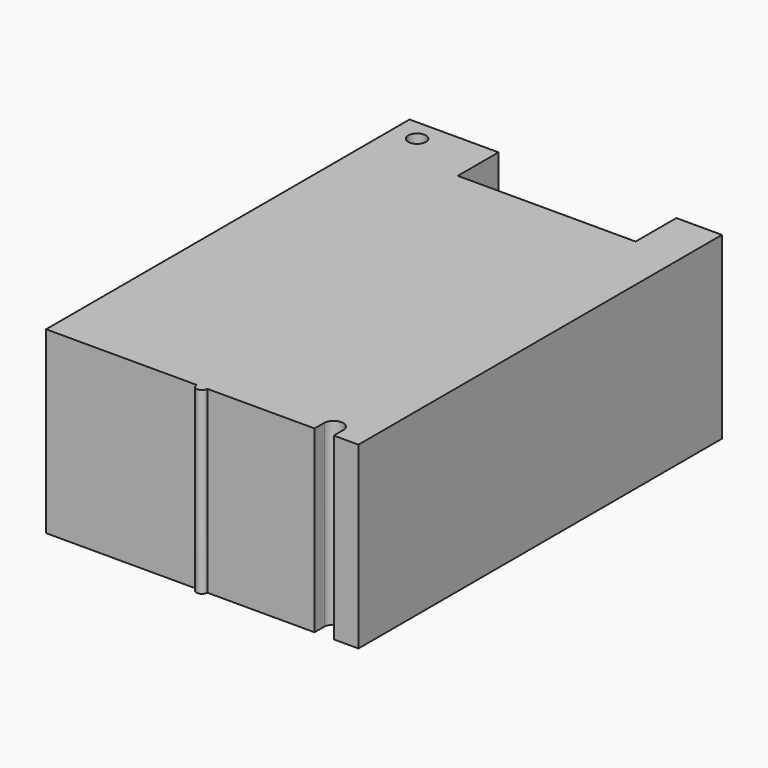
from build123d import *

# Parameters (mm, degrees)
F0_R     = 1.65
F1_DEPTH = 33.5


with BuildPart() as f1:
    # F0 (on Top) → F1 (new body)
    with BuildSketch(Plane.XY):
        with BuildLine():
            Line((-12.5, 41.15), (-29.1, 41.15))
            Line((-29.1, 41.15), (-29.1, -43.65))
            Line((-29.1, -43.65), (-1, -43.65))
            ThreePointArc((-1, -43.65), (0, -42.65), (1, -43.65))
            Line((1, -43.65), (21.0029261778, -43.65))
            Line((21.0029261778, -43.65), (21.0029261778, -41.3474052754))
            ThreePointArc((21.0029261778, -41.3474052754), (22.8, -39.65), (24.5970738222, -41.3474052754))
            Line((24.5970738222, -41.3474052754), (24.5970738222, -43.65))
            Line((24.5970738222, -43.65), (29.2, -43.65))
            Line((29.2, -43.65), (29.2, 41.15))
            Line((29.2, 41.15), (20.7, 41.15))
            Line((20.7, 41.15), (20.7, 31.65))
            Line((20.7, 31.65), (-12.5, 31.65))
            Line((-12.5, 31.65), (-12.5, 41.15))
        make_face()
        with Locations((-24.45, 37.1)):
            Circle(F0_R, mode=Mode.SUBTRACT)
        with BuildLine():
            ThreePointArc((1, -43.65), (0, -42.65), (-1, -43.65))
            Line((-1, -43.65), (1, -43.65))
        make_face()
        with BuildLine():
            Line((1, -43.65), (-1, -43.65))
            ThreePointArc((-1, -43.65), (0, -44.65), (1, -43.65))
        make_face()
    extrude(amount=F1_DEPTH)


solid = f1.part
